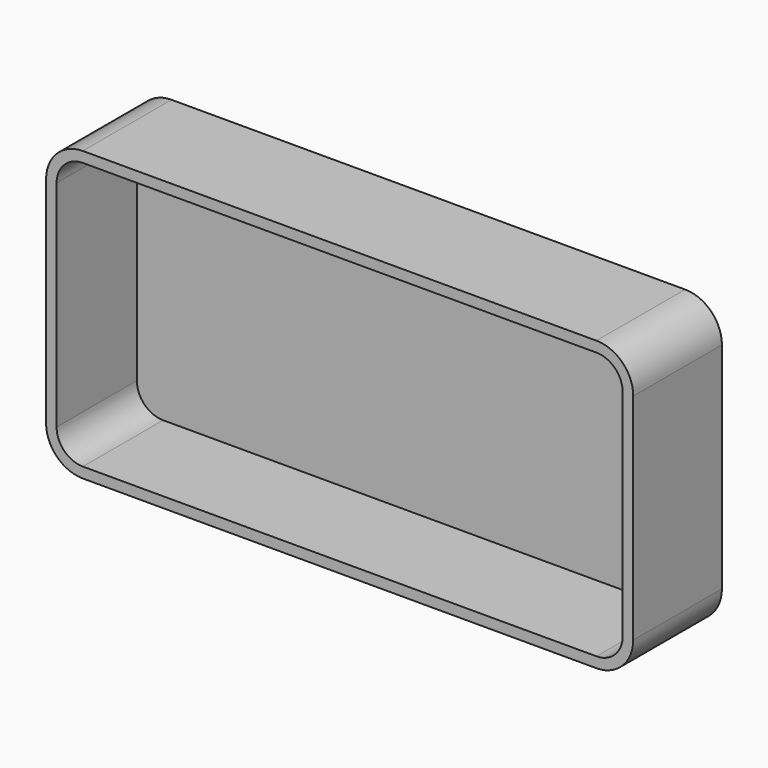
from build123d import *

# Parameters (mm, degrees)
F1_DEPTH = 19.1
F2_T     = 2


with BuildPart() as f1:
    # F0 (on Front) → F1 (new body)
    with BuildSketch(Plane.XZ):
        with BuildLine():
            Line((41.5308204293, 25.6027411669), (-56.2224247307, 25.6027411669))
            ThreePointArc((-56.2224247307, 25.6027411669), (-59.7579586366, 24.1382750729), (-61.2224247307, 20.6027411669))
            Line((-61.2224247307, 20.6027411669), (-61.2224247307, -20.2807460784))
            ThreePointArc((-61.2224247307, -20.2807460784), (-59.7579586366, -23.8162799843), (-56.2224247307, -25.2807460784))
            Line((-56.2224247307, -25.2807460784), (41.5308204293, -25.2807460784))
            ThreePointArc((41.5308204293, -25.2807460784), (45.0663543353, -23.8162799843), (46.5308204293, -20.2807460784))
            Line((46.5308204293, -20.2807460784), (46.5308204293, 20.6027411669))
            ThreePointArc((46.5308204293, 20.6027411669), (45.0663543353, 24.1382750729), (41.5308204293, 25.6027411669))
        make_face()
    extrude(amount=F1_DEPTH)

    # F2
    f2_openings = [f1.faces().sort_by_distance(p)[0] for p in [
        (-7.345802, -19.1, 0.160998),
    ]]
    offset(amount=F2_T, openings=f2_openings, kind=Kind.INTERSECTION)


solid = f1.part
